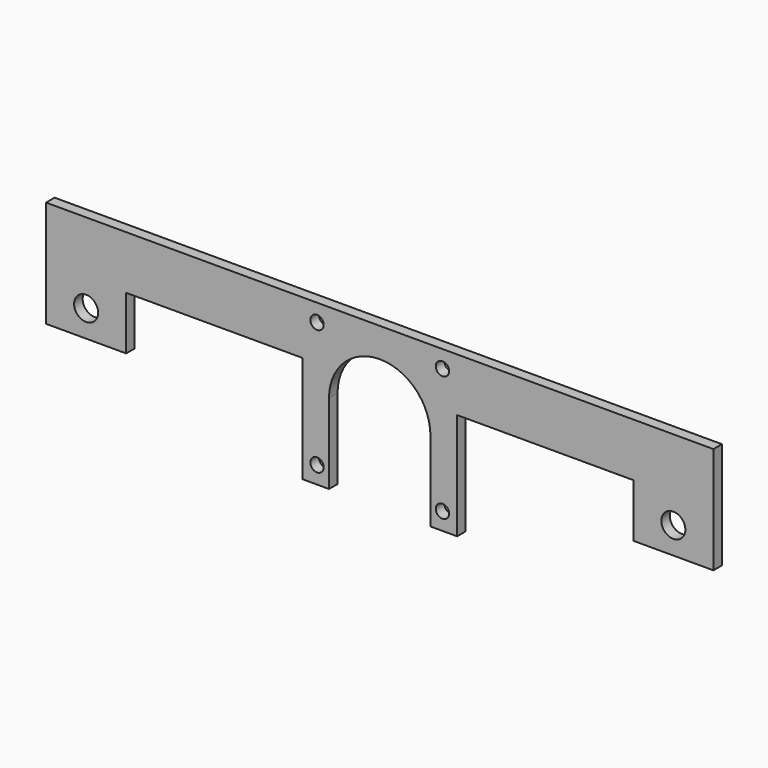
from build123d import *

# Parameters (mm, degrees)
F0_R     = 2.5
F0_R_2   = 4.5
F1_DEPTH = 4


with BuildPart() as f1:
    # F0 (on Front) → F1 (new body)
    with BuildSketch(Plane.XZ):
        with BuildLine():
            ThreePointArc((-19, 0), (0, 19), (19, 0))
            Line((19, 0), (19, -30))
            Line((19, -30), (29, -30))
            Line((29, -30), (29, 10))
            Line((29, 10), (95, 10))
            Line((95, 10), (95, -10))
            Line((95, -10), (125, -10))
            Line((125, -10), (125, 30))
            Line((125, 30), (-125, 30))
            Line((-125, 30), (-125, -10))
            Line((-125, -10), (-95, -10))
            Line((-95, -10), (-95, 10))
            Line((-95, 10), (-29, 10))
            Line((-29, 10), (-29, -30))
            Line((-29, -30), (-19, -30))
            Line((-19, -30), (-19, 0))
        make_face()
        with Locations((-23.5, -23.5)):
            Circle(F0_R, mode=Mode.SUBTRACT)
        with Locations((23.5, -23.5)):
            Circle(F0_R, mode=Mode.SUBTRACT)
        with Locations((-110, 0)):
            Circle(F0_R_2, mode=Mode.SUBTRACT)
        with Locations((-23.5, 23.5)):
            Circle(F0_R, mode=Mode.SUBTRACT)
        with Locations((110, 0)):
            Circle(F0_R_2, mode=Mode.SUBTRACT)
        with Locations((23.5, 23.5)):
            Circle(F0_R, mode=Mode.SUBTRACT)
    extrude(amount=F1_DEPTH)


solid = f1.part
